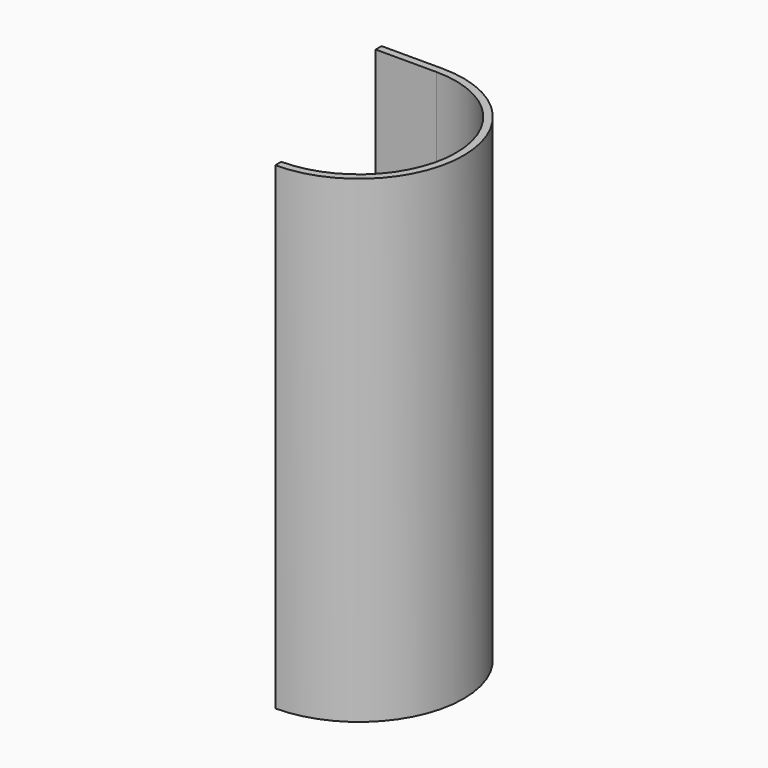
from build123d import *

# Parameters (mm, degrees)
F1_DEPTH = 203.2


with BuildPart() as f1:
    # F0 (on Top) → F1 (new body)
    with BuildSketch(Plane.XY):
        with BuildLine():
            Line((67.814342, 15.353229), (93.740961, 15.353229))
            ThreePointArc((93.740961, 15.353229), (135.015961, -25.921771), (93.740961, -67.196771))
            Line((93.740961, -67.196771), (93.740961, -70.371771))
            ThreePointArc((93.740961, -70.371771), (138.190961, -25.921771), (93.740961, 18.528229))
            Line((93.740961, 18.528229), (67.814342, 18.528229))
            Line((67.814342, 18.528229), (67.814342, 15.353229))
        make_face()
    extrude(amount=F1_DEPTH)


solid = f1.part
